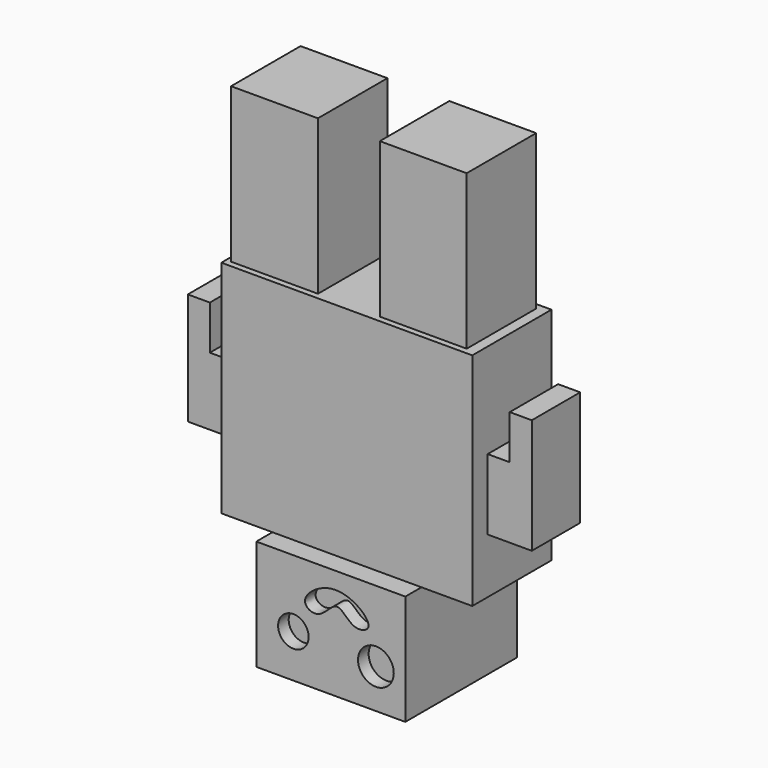
from build123d import *

# Parameters (mm, degrees)
F0_W      = 5
F0_H      = 5
F1_DEPTH  = 8.89
F2_W      = 14.4415530376
F2_H      = 5.6946645491
F3_DEPTH  = 12.7
F4_W      = 8.575418964
F4_H      = 1.1608570348
F4_H_2    = 5.6946645491
F5_DEPTH  = 6.35
F6_W      = 3.4819149878
F6_H      = 4.0748249739
F7_DEPTH  = 2.54
F8_W      = 4.1677881964
F8_H      = 3.9033070207
F9_DEPTH  = 2.54
F11_W     = 1.27
F11_H     = 3.4819149878
F10_W     = 1.27
F10_H     = 4.1677881964
F12_DEPTH = 2.54
F13_R     = 1.0279027568
F13_R_2   = 0.8784163787
F14_DEPTH = 0.762


with BuildPart() as f1:
    # F0 (on Top) → F1 (new body)
    with BuildSketch(Plane.XY):
        with Locations((-7.5847473372, 0)):
            Rectangle(F0_W, F0_H)
    extrude(amount=F1_DEPTH)



with BuildPart() as f1b:
    # F0 (on Top) → F1, piece 2 (new body)
    with BuildSketch(Plane.XY):
        with Locations((0.9745767244, 0)):
            Rectangle(F0_W, F0_H)
    extrude(amount=F1_DEPTH)


with BuildPart() as f1_1:
    add(f1.part)

    add(f1b.part)  # F3 merges F1b
    # F2 (on Top) → F3 (join)
    with BuildSketch(Plane.XY):
        with Locations((-3.1453159172, 0)):
            Rectangle(F2_W, F2_H)
    extrude(amount=-F3_DEPTH)

    # F4 (on face) → F5 (join)
    with BuildSketch(Plane(origin=(0, 0, -12.7), x_dir=(1, 0, 0), z_dir=(0, 0, -1))):
        with Locations((-3.1367521733, -3.427760792)):
            Rectangle(F4_W, F4_H)
        with Locations((-3.1367521733, 3.427760792)):
            Rectangle(F4_W, F4_H)
        with Locations((-3.1367521733, 0)):
            Rectangle(F4_W, F4_H_2)
    extrude(amount=F5_DEPTH)

    # F6 (on face) → F7 (join)
    with BuildSketch(Plane.YZ.offset(4.0754606016)):
        with Locations((0, -7.4885827489)):
            Rectangle(F6_W, F6_H)
    extrude(amount=F7_DEPTH)

    # F8 (on face) → F9 (join)
    with BuildSketch(Plane(origin=(-10.366092436, 0, 0), x_dir=(0, -1, 0), z_dir=(-1, 0, 0))):
        with Locations((0, -7.2363391519)):
            Rectangle(F8_W, F8_H)
    extrude(amount=F9_DEPTH)

    # F11 (on face) + F10 (on face) → F12 (join)
    with BuildSketch(Plane.XY.offset(-5.4511702619)):
        with Locations((5.9804606016, 0)):
            Rectangle(F11_W, F11_H)
    with BuildSketch(Plane.XY.offset(-5.2846856415)):
        with Locations((-12.271092436, 0)):
            Rectangle(F10_W, F10_H)
    extrude(amount=F12_DEPTH)

    # F13 (on face) → F14 (cut)
    with BuildSketch(Plane.XZ.offset(4.0081893094)):
        with Locations((-0.5419000518, -16.7948883027)):
            Circle(F13_R)
        with Locations((-5.2912211977, -16.5589284152)):
            Circle(F13_R_2)
        with BuildLine():
            add(Edge.make_bspline(
                [(-4.6211974695, -14.8275010288), (-4.6525107879, -14.3582631191), (-2.8178407576, -12.9321177777), (-0.316711825, -14.9404321969), (-1.9384263234, -15.4575665045), (-2.7810199858, -13.9257072681), (-3.7237353615, -15.5727199427), (-4.6015179058, -15.1224042148), (-4.6211974695, -14.8275010288)],
                knots=[0, 0, 0, 0, 0.2079480328, 0.4192374914, 0.5500370632, 0.7069707366, 0.8693103517, 1, 1, 1, 1], degree=3))
        make_face()
    extrude(amount=-F14_DEPTH, mode=Mode.SUBTRACT)


solid = f1_1.part
